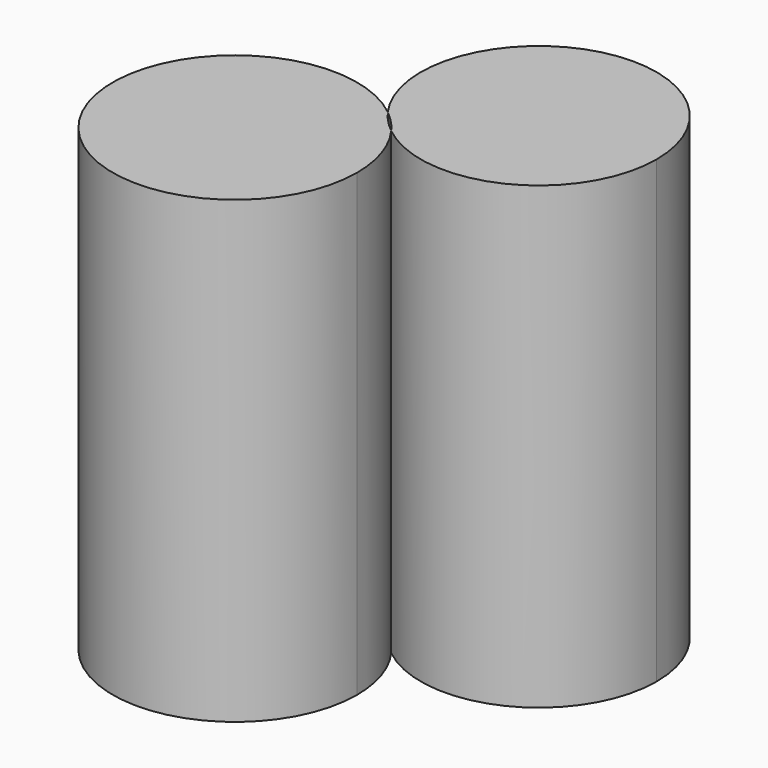
from build123d import *

# Parameters (mm, degrees)
F1_DEPTH = 76.2


with BuildPart() as f1:
    # F0 (on Top) → F1 (new body)
    with BuildSketch(Plane.XY):
        with BuildLine():
            ThreePointArc((3.6617578733, -3.8640653823), (1.6988213015, -2.0571762997), (0, 0))
            ThreePointArc((0, 0), (-31.0349952885, -24.4719628131), (7.5128734967, -15.7478749752))
            ThreePointArc((7.5128734967, -15.7478749752), (6.526063522, -9.5017557404), (3.6617578733, -3.8640653823))
        make_face()
    extrude(amount=F1_DEPTH)


with BuildPart() as f1b:
    # F0 (on Top) → F1, piece 2 (new body)
    with BuildSketch(Plane.XY):
        with BuildLine():
            ThreePointArc((3.6617578733, -3.8640653823), (24.3626985318, -6.2371382809), (35.4597886985, 11.3984793425))
            ThreePointArc((35.4597886985, 11.3984793425), (9.9114343292, 30.0218648152), (0, 0))
            ThreePointArc((0, 0), (1.9583385052, -1.8112464124), (3.6617578733, -3.8640653823))
        make_face()
    extrude(amount=F1_DEPTH)


solid = Compound([f1.part, f1b.part])
